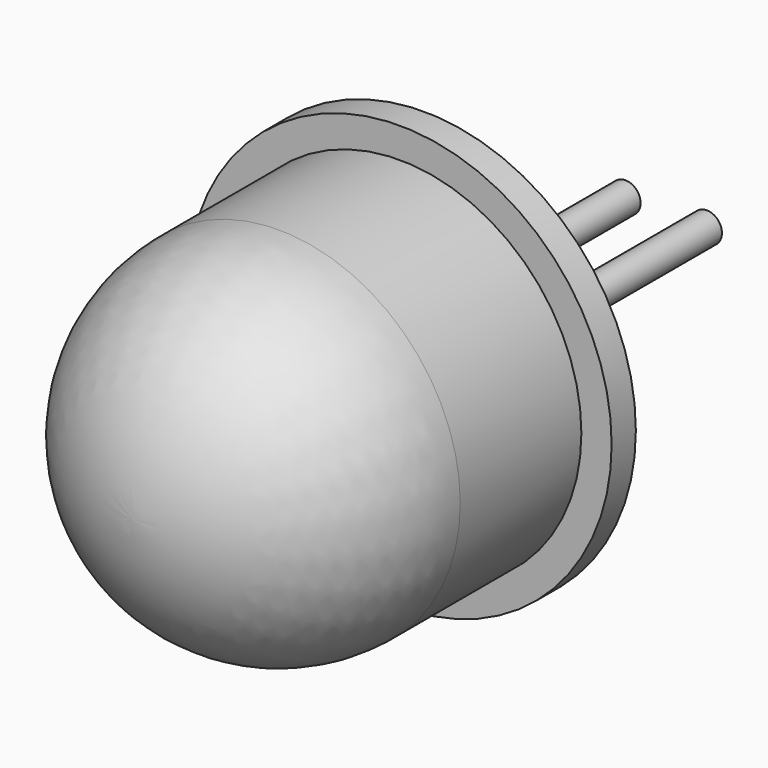
from build123d import *

# Parameters (mm, degrees)
F0_W     = 6
F0_H     = 5
F2_R     = 0.5
F3_DEPTH = 10


with BuildPart() as f1:
    # F0 (on Top) → F1 (revolve)
    with BuildSketch(Plane.XY):
        Polygon((7, 0), (0, 0), (0, -1), (6, -1), (7, -1), align=None)
        with Locations((3, -3.5)):
            Rectangle(F0_W, F0_H)
        with BuildLine():
            Line((6, -6), (0, -6))
            Line((0, -6), (0, -12))
            ThreePointArc((0, -12), (4.242641, -10.242641), (6, -6))
        make_face()
    revolve(axis=Axis((0, -9, 0), (0, 1, 0)))


with BuildPart() as f3:
    # F2 (on face) → F3 (new body)
    with BuildSketch(Plane(origin=(0, 0, 0), x_dir=(-1, 0, 0), z_dir=(0, 1, 0))):
        with Locations((-1.343674, 0)):
            Circle(F2_R)
        with BuildLine():
            ThreePointArc((1.843674, 0), (1.343674, 0.5), (0.843674, 0))
            ThreePointArc((0.843674, 0), (1.343674, -0.5), (1.843674, 0))
        make_face()
    extrude(amount=F3_DEPTH)


solid = Compound([f1.part, f3.part])
